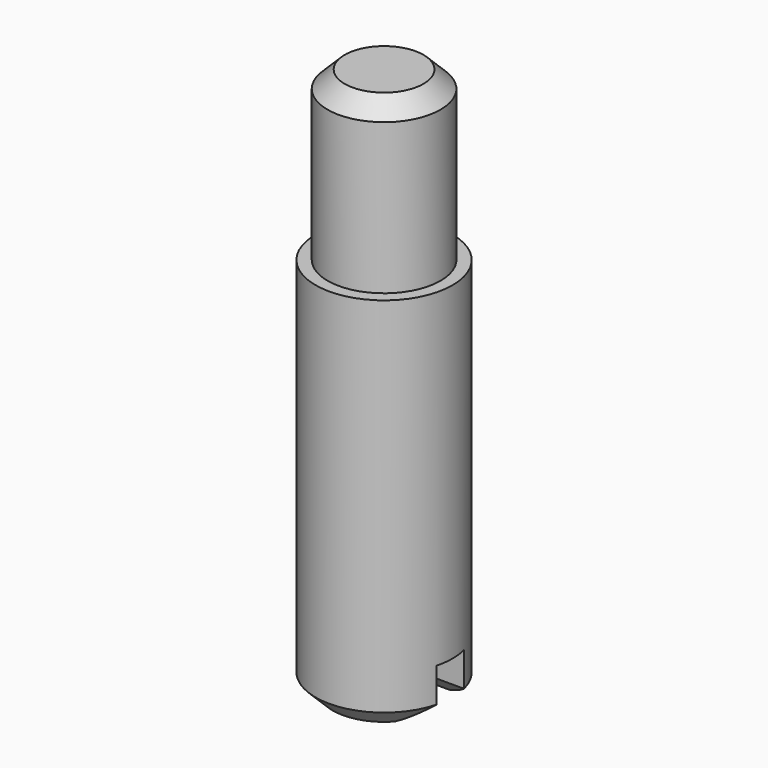
from build123d import *

# Parameters (mm, degrees)
F0_R     = 1.65
F1_DEPTH = 4.9
F0_R_2   = 2
F2_DEPTH = 11.1
F3_SIZE  = 0.5
F4_W     = 4
F4_H     = 1
F5_DEPTH = 1.5
F6_SIZE  = 0.5


with BuildPart() as f1:
    # F0 (on Top) → F1 (new body)
    with BuildSketch(Plane.XY):
        Circle(F0_R)
    extrude(amount=F1_DEPTH)

    # F0 (on Top) → F2 (join)
    with BuildSketch(Plane.XY):
        Circle(F0_R_2)
        Circle(F0_R, mode=Mode.SUBTRACT)
        Circle(F0_R)
    extrude(amount=-F2_DEPTH)

    # F3
    f3_edges = [f1.edges().sort_by_distance(p)[0] for p in [
        (-1.65, 0, 4.9),
        (-2, 0, -11.1),
    ]]
    chamfer(f3_edges, length=F3_SIZE)

    # F4 (on face) → F5 (cut)
    with BuildSketch(Plane(origin=(0, 0, -11.1), x_dir=(1, 0, 0), z_dir=(0, 0, -1))):
        Rectangle(F4_W, F4_H)
    extrude(amount=-F5_DEPTH, mode=Mode.SUBTRACT)

    # F6
    f6_edges = [f1.edges().sort_by_distance(p)[0] for p in [
        (0, 0.5, -11.1),
        (0, -0.5, -11.1),
    ]]
    chamfer(f6_edges, length=F6_SIZE)


solid = f1.part
